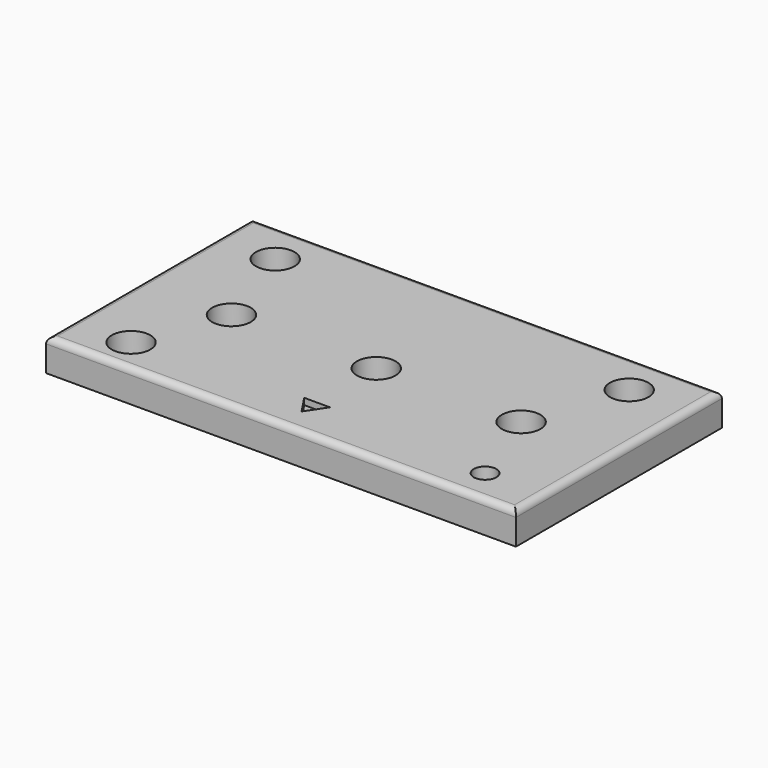
from build123d import *

# Parameters (mm, degrees)
SKETCH019_W     = 73
SKETCH019_H     = 40
PAD006_DEPTH    = 5
SKETCH020_R     = 3
SKETCH020_R_2   = 1.75
POCKET011_DEPTH = 5
SKETCH021_R     = 3
POCKET012_DEPTH = 3.5
FILLET_R        = 1
POCKET014_DEPTH = 1


with BuildPart() as part:
    # Sketch019 → Pad006 (new body)
    with BuildSketch(Plane.XY):
        with Locations((36.5, 20)):
            Rectangle(SKETCH019_W, SKETCH019_H)
    extrude(amount=PAD006_DEPTH)

    # Sketch020 (on Face6 of Pad006) → Pocket011 (cut)
    with BuildSketch(Plane.XY.offset(5)):
        with Locations((14, 18.5)):
            Circle(SKETCH020_R)
        with Locations((59, 18.5)):
            Circle(SKETCH020_R)
        with Locations((36.5, 18.5)):
            Circle(SKETCH020_R)
        with Locations((9, 33.25)):
            Circle(SKETCH020_R_2)
        with Locations((64, 33.25)):
            Circle(SKETCH020_R_2)
        with Locations((64, 5.25)):
            Circle(SKETCH020_R_2)
        with Locations((9, 5.25)):
            Circle(SKETCH020_R_2)
    extrude(amount=-POCKET011_DEPTH, mode=Mode.SUBTRACT)

    # Sketch021 (on Face5 of Pocket011) → Pocket012 (cut)
    with BuildSketch(Plane.XY.offset(5)):
        with Locations((36.5, 18.5)):
            Circle(SKETCH021_R)
        with Locations((9, 5.25)):
            Circle(SKETCH021_R)
        with Locations((64, 33.25)):
            Circle(SKETCH021_R)
        with Locations((9, 33.25)):
            Circle(SKETCH021_R)
    extrude(amount=-POCKET012_DEPTH, mode=Mode.SUBTRACT)

    # Fillet
    fillet_edges = [part.edges().sort_by_distance(p)[0] for p in [
        (73, 20, 5),
        (36.5, 40, 5),
        (0, 20, 5),
        (36.5, 0, 5),
    ]]
    fillet(fillet_edges, radius=FILLET_R)

    # Sketch023 (on Face8 of Fillet) → Pocket014 (cut)
    with BuildSketch(Plane.XY.offset(5)):
        Polygon((36.5, 4), (38.5, 7), (34.5, 7), align=None)
    extrude(amount=-POCKET014_DEPTH, mode=Mode.SUBTRACT)


solid = part.part
